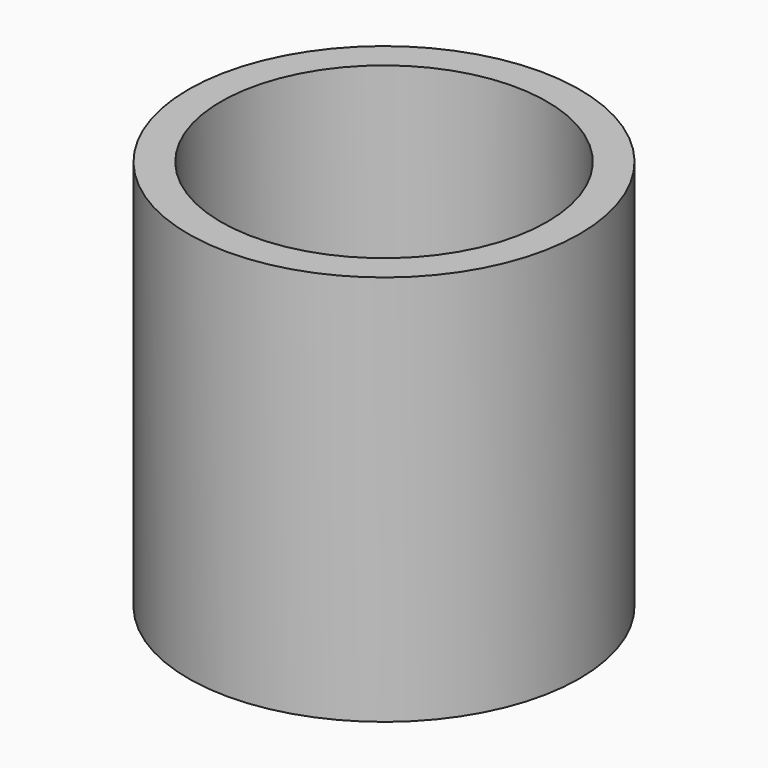
from build123d import *

# Parameters (mm, degrees)
F0_R     = 15
F1_DEPTH = 30
F2_R     = 12.5
F3_DEPTH = 25
F4_W     = 12.5
F4_H     = 12.5
F5_DEPTH = 5.001


with BuildPart() as f1:
    # F0 (on Top) → F1 (new body)
    with BuildSketch(Plane.XY):
        Circle(F0_R)
    extrude(amount=F1_DEPTH)

    # F2 (on face) → F3 (cut)
    with BuildSketch(Plane.XY.offset(30)):
        Circle(F2_R)
    extrude(amount=-F3_DEPTH, mode=Mode.SUBTRACT)

    # F4 (on face) → F5 (cut, through all)
    with BuildSketch(Plane.XY.offset(5)):
        Rectangle(F4_W, F4_H)
    extrude(amount=-F5_DEPTH, mode=Mode.SUBTRACT)


solid = f1.part
